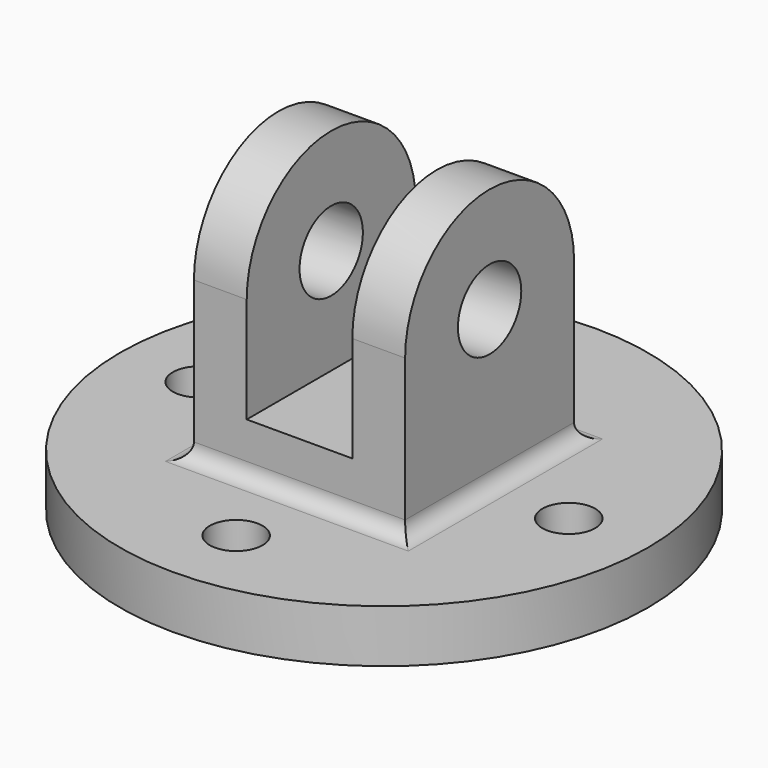
from build123d import *

# Parameters (mm, degrees)
F0_R      = 63.5
F1_DEPTH  = 12.7
F3_DEPTH  = 25.4
F6_DEPTH  = 12.7
F9_DEPTH  = 12.7
F10_R     = 9.525
F11_DEPTH = 88.901
F12_R     = 6.35
F13_DEPTH = 12.701
F14_R     = 3.81


with BuildPart() as f1:
    # F0 (on Top) → F1 (new body)
    with BuildSketch(Plane.XY):
        Circle(F0_R)
    extrude(amount=F1_DEPTH)

    # F2 (on Front) → F3 (join, symmetric)
    with BuildSketch(Plane.XZ):
        Polygon((-25.4, 50.8), (-25.4, 0), (0, 0), (0, 25.4), (-12.7, 25.4), (-12.7, 50.8), align=None)
        Polygon((0, 25.4), (0, 0), (25.4, 0), (25.4, 50.8), (12.7, 50.8), (12.7, 25.4), align=None)
    extrude(amount=F3_DEPTH, both=True)

    # F5 (on offset) → F6 (join)
    with BuildSketch(Plane.YZ.offset(25.4)):
        with BuildLine():
            Line((-25.4, 50.8), (25.4, 50.8))
            ThreePointArc((25.4, 50.8), (0, 76.2), (-25.4, 50.8))
        make_face()
    extrude(amount=-F6_DEPTH)

    # F8 (on offset) → F9 (join)
    with BuildSketch(Plane(origin=(-25.4, 0, 0), x_dir=(0, -1, 0), z_dir=(-1, 0, 0))):
        with BuildLine():
            Line((-25.4, 50.8), (25.4, 50.8))
            ThreePointArc((25.4, 50.8), (0, 76.2), (-25.4, 50.8))
        make_face()
    extrude(amount=-F9_DEPTH)

    # F10 (on face) → F11 (cut, through all)
    with BuildSketch(Plane.YZ.offset(25.4)):
        with Locations((0, 50.8)):
            Circle(F10_R)
    extrude(amount=-F11_DEPTH, mode=Mode.SUBTRACT)

    # F12 (on face) → F13 (cut, through all)
    with BuildSketch(Plane.XY.offset(12.7)):
        with Locations((0, 44.45)):
            Circle(F12_R)
        with Locations((44.45, 0)):
            Circle(F12_R)
        with Locations((0, -44.45)):
            Circle(F12_R)
        with Locations((-44.45, 0)):
            Circle(F12_R)
    extrude(amount=-F13_DEPTH, mode=Mode.SUBTRACT)

    # F14
    f14_edges = [f1.edges().sort_by_distance(p)[0] for p in [
        (-25.4, 0, 12.7),
        (0, -25.4, 12.7),
        (25.4, 0, 12.7),
        (0, 25.4, 12.7),
    ]]
    fillet(f14_edges, radius=F14_R)


solid = f1.part
